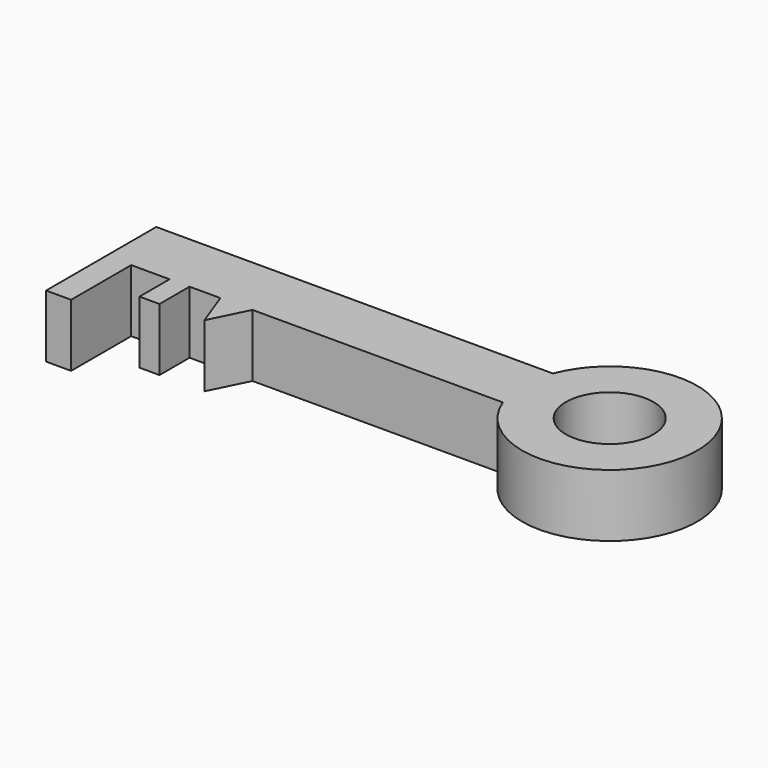
from build123d import *

# Parameters (mm, degrees)
F0_R     = 17.5
F0_W     = 8
F0_H     = 15
F0_W_2   = 10
F0_H_2   = 30
F1_DEPTH = 25


with BuildPart() as f1:
    # F0 (on Top) → F1 (new body)
    with BuildSketch(Plane.XY):
        Polygon((-100.000008, 0), (0, 0), (0, 25), (-158.437499, 25), (-158.437499, 0), (-148.437499, 0), (-133.125003, 0), (-125.125003, 0), (-112.812507, 0), align=None)
        with BuildLine():
            Line((0, 25), (0, 0))
            ThreePointArc((0, 0), (67.691742, 12.5), (0, 25))
        make_face()
        with Locations((32.691742, 12.5)):
            Circle(F0_R, mode=Mode.SUBTRACT)
        Polygon((-107.33281, -14.84021), (-100.000008, 0), (-112.812507, 0), align=None)
        with Locations((-129.125003, -7.5)):
            Rectangle(F0_W, F0_H)
        with Locations((-153.437499, -15)):
            Rectangle(F0_W_2, F0_H_2)
    extrude(amount=F1_DEPTH)


solid = f1.part
